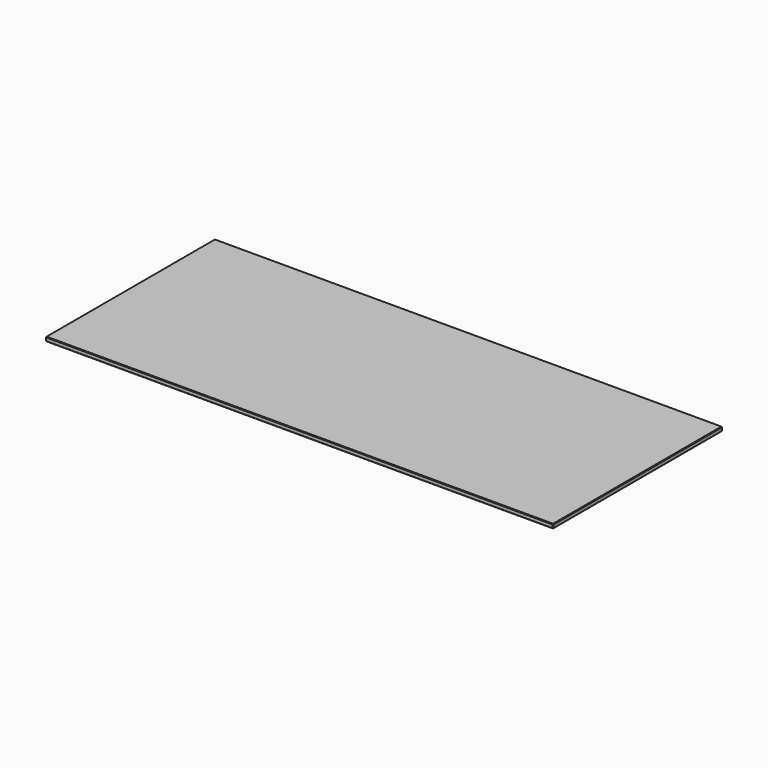
from build123d import *

# Parameters (mm, degrees)
F0_W     = 960
F0_H     = 400
F1_DEPTH = 4
F2_SIZE  = 1
F3_SIZE  = 1
F4_SIZE  = 1
F5_SIZE  = 1
F6_SIZE  = 1
F7_SIZE  = 1


with BuildPart() as f1:
    # F0 (on Top) → F1 (new body, symmetric)
    with BuildSketch(Plane.XY):
        Rectangle(F0_W, F0_H)
    extrude(amount=F1_DEPTH, both=True)

    # F2
    f2_edges = [f1.edges().sort_by_distance(p)[0] for p in [
        (0, -200, 4),
    ]]
    chamfer(f2_edges, length=F2_SIZE)

    # F3
    f3_edges = [f1.edges().sort_by_distance(p)[0] for p in [
        (480, 0.5, 4),
    ]]
    chamfer(f3_edges, length=F3_SIZE)

    # F4
    f4_edges = [f1.edges().sort_by_distance(p)[0] for p in [
        (-0.5, 200, 4),
    ]]
    chamfer(f4_edges, length=F4_SIZE)

    # F5
    f5_edges = [f1.edges().sort_by_distance(p)[0] for p in [
        (0, -200, -4),
        (-480, 0, -4),
        (0, 200, -4),
        (480, 0, -4),
    ]]
    chamfer(f5_edges, length=F5_SIZE)

    # F6
    f6_edges = [f1.edges().sort_by_distance(p)[0] for p in [
        (-480, 0, 4),
    ]]
    chamfer(f6_edges, length=F6_SIZE)

    # F7
    f7_edges = [f1.edges().sort_by_distance(p)[0] for p in [
        (480, 200, 0),
        (-480, -200, 0),
        (480, -200, 0),
        (-480, 200, 0),
    ]]
    chamfer(f7_edges, length=F7_SIZE)


solid = f1.part
